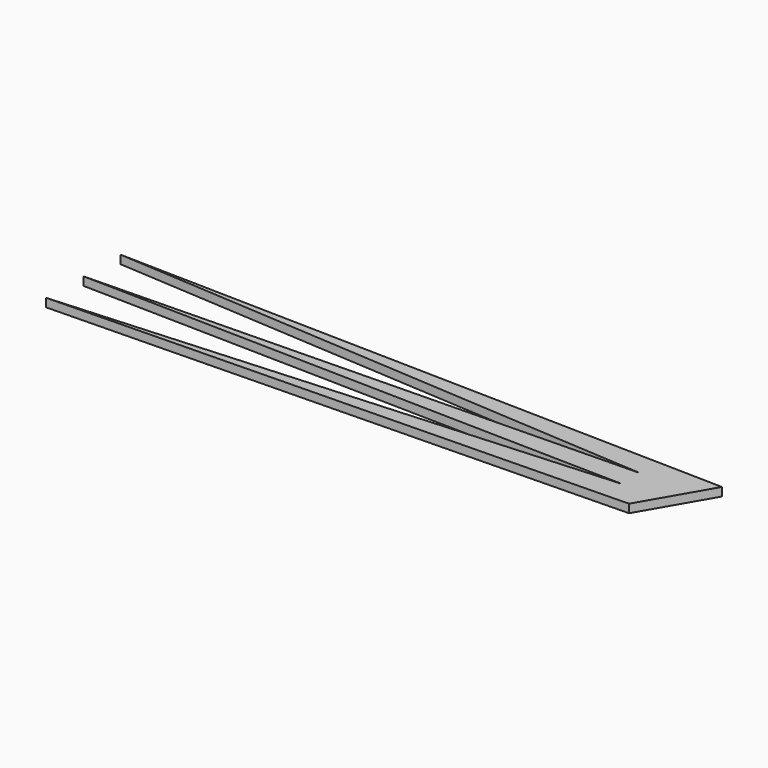
from build123d import *

# Parameters (mm, degrees)
F1_DEPTH = 1.5875


with BuildPart() as f1:
    # F0 (on Top) → F1 (new body, symmetric)
    with BuildSketch(Plane.XY):
        Polygon((-223.32472, -17.570947), (-7.42472, -12.859992), (7.239977, 12.540008), (-223.32472, 17.570947), (-16.94972, 4.357829), (-223.32472, 0), (-16.94972, -4.357829), align=None)
    extrude(amount=F1_DEPTH, both=True)


solid = f1.part
